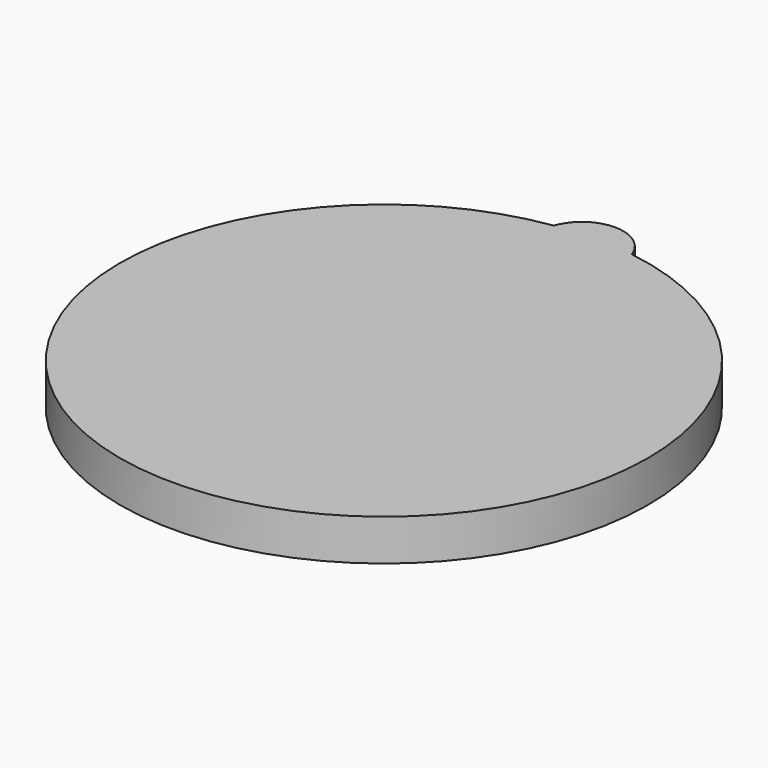
from build123d import *

# Parameters (mm, degrees)
CYLINDER034_R     = 3.2
CYLINDER034_DEPTH = 0.5
CYLINDER035_R     = 0.5
CYLINDER035_DEPTH = 0.5


with BuildPart() as cylinder035:
    # Cylinder034 → Cylinder034 (new body)
    with BuildSketch(Plane(origin=(0, 16, -0.5), x_dir=(1, 0, 0), z_dir=(0, 0, 1))):
        Circle(CYLINDER034_R)
    extrude(amount=CYLINDER034_DEPTH)


with BuildPart() as fusion010006005:
    # Cylinder035 → Cylinder035 (new body)
    with BuildSketch(Plane(origin=(0, 19, -0.5), x_dir=(1, 0, 0), z_dir=(0, 0, 1))):
        Circle(CYLINDER035_R)
    extrude(amount=CYLINDER035_DEPTH)

    # Fusion010006005: union Cylinder035
    add(cylinder035.part)


solid = fusion010006005.part
